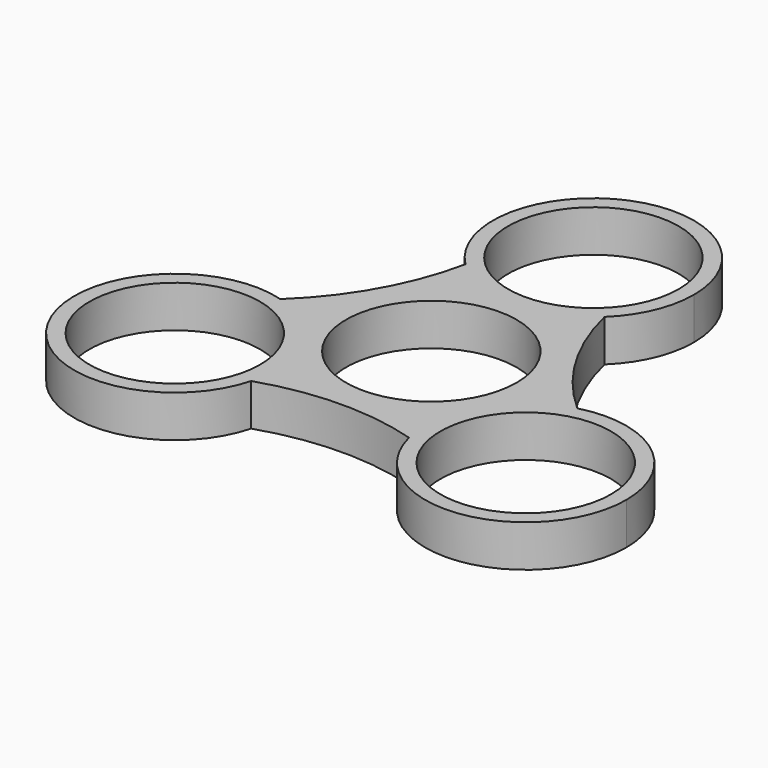
from build123d import *

# Parameters (mm, degrees)
F0_R     = 11.2
F1_DEPTH = 5.5


with BuildPart() as f1:
    # F0 (on Top) → F1 (new body)
    with BuildSketch(Plane.XY):
        with BuildLine():
            ThreePointArc((9.108559, 17.046917), (-0.153209, 13.401557), (-9.327866, 17.260919))
            ThreePointArc((-9.327866, 17.260919), (-12.940305, 7.541263), (-19.317343, -0.635215))
            ThreePointArc((-19.317343, -0.635215), (-12.46951, -5.390137), (-9.836854, -13.300334))
            ThreePointArc((-9.836854, -13.300334), (-9.949235, -15.019114), (-10.284461, -16.708629))
            ThreePointArc((-10.284461, -16.708629), (-0.060773, -14.977265), (10.208784, -16.411702))
            ThreePointArc((10.208784, -16.411702), (11.682694, -6.568096), (19.612327, -0.552291))
            ThreePointArc((19.612327, -0.552291), (13.001078, 7.436001), (9.108559, 17.046917))
        make_face()
        Circle(F0_R, mode=Mode.SUBTRACT)
        with BuildLine():
            ThreePointArc((36.236854, -13.300334), (31.069172, -2.825513), (19.612327, -0.552291))
            ThreePointArc((19.612327, -0.552291), (11.682694, -6.568096), (10.208784, -16.411702))
            ThreePointArc((10.208784, -16.411702), (24.603614, -26.407022), (36.236854, -13.300334))
        make_face()
        with Locations((23.036854, -13.300334)):
            Circle(F0_R, mode=Mode.SUBTRACT)
        with BuildLine():
            ThreePointArc((9.108559, 17.046917), (12.134104, 21.404178), (13.2, 26.600668))
            ThreePointArc((13.2, 26.600668), (-5.055303, 38.79427), (-9.327866, 17.260919))
            ThreePointArc((-9.327866, 17.260919), (-0.153209, 13.401557), (9.108559, 17.046917))
        make_face()
        with Locations((0, 26.600668)):
            Circle(F0_R, mode=Mode.SUBTRACT)
        with BuildLine():
            ThreePointArc((-9.836854, -13.300334), (-12.46951, -5.390137), (-19.317343, -0.635215))
            ThreePointArc((-19.317343, -0.635215), (-34.544224, -19.767206), (-10.284461, -16.708629))
            ThreePointArc((-10.284461, -16.708629), (-9.949235, -15.019114), (-9.836854, -13.300334))
        make_face()
        with Locations((-23.036854, -13.300334)):
            Circle(F0_R, mode=Mode.SUBTRACT)
    extrude(amount=F1_DEPTH)


solid = f1.part
